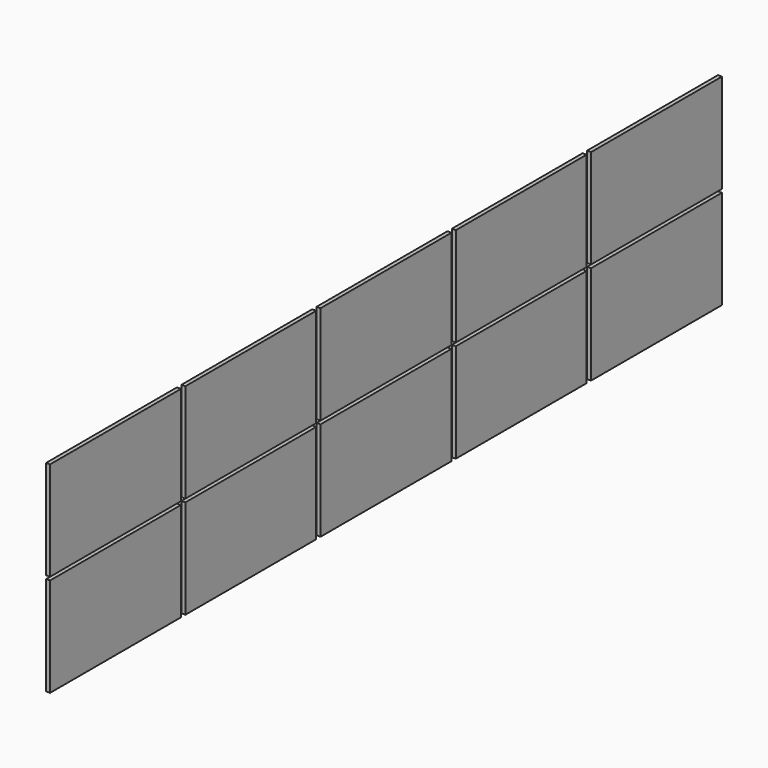
from build123d import *

# Parameters (mm, degrees)
CYLINDER003_R           = 4.5
CYLINDER003_DEPTH       = 10
CYLINDER003_PITCH_ANGLE = 90
CYLINDER002_R           = 4.5
CYLINDER002_DEPTH       = 10
CYLINDER002_PITCH_ANGLE = 90
CYLINDER001_R           = 4.5
CYLINDER001_DEPTH       = 10
CYLINDER001_PITCH_ANGLE = 90
CYLINDER_R              = 4.5
CYLINDER_DEPTH          = 10
CYLINDER_PITCH_ANGLE    = 90
SKETCH002_W             = 970
SKETCH002_H             = 1618
PAD002_DEPTH            = 27
SKETCH001_W             = 922
SKETCH001_H             = 1570
PAD001_DEPTH            = 20
SKETCH_W                = 992
SKETCH_H                = 1640
PAD_DEPTH               = 40
CUT003_ROLL_ANGLE       = 90
ARRAY_Y_COUNT           = 5
ARRAY_Y_PITCH           = 1695
ARRAY_Z_COUNT           = 2
ARRAY_Z_PITCH           = 1025


with BuildPart() as cylinder003:
    # Cylinder003 → Cylinder003 (new body)
    with BuildSketch(Plane.XY):
        Circle(CYLINDER003_R)
    extrude(amount=CYLINDER003_DEPTH)


with BuildPart() as cylinder003_1:
    # Cylinder003 pitch: moved
    add(cylinder003.part.rotate(Axis((0, 0, 0), (0, 1, 0)), CYLINDER003_PITCH_ANGLE))


with BuildPart() as cylinder003_2:
    # Cylinder003 placement: moved
    add(cylinder003_1.part.moved(Location((0, 25, 1220))))


with BuildPart() as fusion001:
    # Cylinder002 → Cylinder002 (new body)
    with BuildSketch(Plane.XY):
        Circle(CYLINDER002_R)
    extrude(amount=CYLINDER002_DEPTH)


with BuildPart() as fusion001_1:
    # Cylinder002 pitch: moved
    add(fusion001.part.rotate(Axis((0, 0, 0), (0, 1, 0)), CYLINDER002_PITCH_ANGLE))


with BuildPart() as fusion001_2:
    # Cylinder002 placement: moved
    add(fusion001_1.part.moved(Location((0, 25, 420))))

    # Fusion001: union Cylinder003
    add(cylinder003_2.part)


with BuildPart() as fusion001_3:
    # Fusion001 placement: moved
    add(fusion001_2.part.moved(Location((0, 942, 0))))


with BuildPart() as cylinder001:
    # Cylinder001 → Cylinder001 (new body)
    with BuildSketch(Plane.XY):
        Circle(CYLINDER001_R)
    extrude(amount=CYLINDER001_DEPTH)


with BuildPart() as cylinder001_1:
    # Cylinder001 pitch: moved
    add(cylinder001.part.rotate(Axis((0, 0, 0), (0, 1, 0)), CYLINDER001_PITCH_ANGLE))


with BuildPart() as cylinder001_2:
    # Cylinder001 placement: moved
    add(cylinder001_1.part.moved(Location((0, 25, 1220))))


with BuildPart() as fusion:
    # Cylinder → Cylinder (new body)
    with BuildSketch(Plane.XY):
        Circle(CYLINDER_R)
    extrude(amount=CYLINDER_DEPTH)


with BuildPart() as fusion_1:
    # Cylinder pitch: moved
    add(fusion.part.rotate(Axis((0, 0, 0), (0, 1, 0)), CYLINDER_PITCH_ANGLE))


with BuildPart() as fusion_2:
    # Cylinder placement: moved
    add(fusion_1.part.moved(Location((0, 25, 420))))

    # Fusion: union Cylinder001
    add(cylinder001_2.part)


with BuildPart() as obj1:
    # Sketch002 → Pad002 (new body)
    with BuildSketch(Plane.YZ.offset(3)):
        with Locations((496, 820)):
            Rectangle(SKETCH002_W, SKETCH002_H)
    extrude(amount=PAD002_DEPTH)


with BuildPart() as obj2:
    # Sketch001 → Pad001 (new body)
    with BuildSketch(Plane.YZ):
        with Locations((496, 820)):
            Rectangle(SKETCH001_W, SKETCH001_H)
    extrude(amount=PAD001_DEPTH)


with BuildPart() as obj3:
    # Sketch → Pad (new body)
    with BuildSketch(Plane.YZ):
        with Locations((496, 820)):
            Rectangle(SKETCH_W, SKETCH_H)
    extrude(amount=PAD_DEPTH)

    # Cut: cut obj2
    add(obj2.part, mode=Mode.SUBTRACT)

    # Cut001: cut obj1
    add(obj1.part, mode=Mode.SUBTRACT)

    # Cut002: cut Fusion
    add(fusion_2.part, mode=Mode.SUBTRACT)

    # Cut003: cut Fusion001
    add(fusion001_3.part, mode=Mode.SUBTRACT)


with BuildPart() as obj3_1:
    # Cut003 roll: moved
    add(obj3.part.rotate(Axis((0, 0, 0), (1, 0, 0)), CUT003_ROLL_ANGLE))


with BuildPart() as obj3_2:
    # Cut003 placement: moved
    add(obj3_1.part.moved(Location((0, -1305.59, 0))))

    # Array Y: obj3_5


with BuildPart() as obj3_3:
    add(obj3_2.part)
    with Locations(*[(0, i * ARRAY_Y_PITCH, 0) for i in range(1, ARRAY_Y_COUNT)]):
        add(obj3_2.part)

    # Array Z: obj3_2


with BuildPart() as obj3_4:
    add(obj3_3.part)
    with Locations(*[(0, 0, i * ARRAY_Z_PITCH) for i in range(1, ARRAY_Z_COUNT)]):
        add(obj3_3.part)


with BuildPart() as obj3_5:
    # Array placement: moved
    add(obj3_4.part.moved(Location((117.5, 3050.59, 983))))


solid = obj3_5.part
